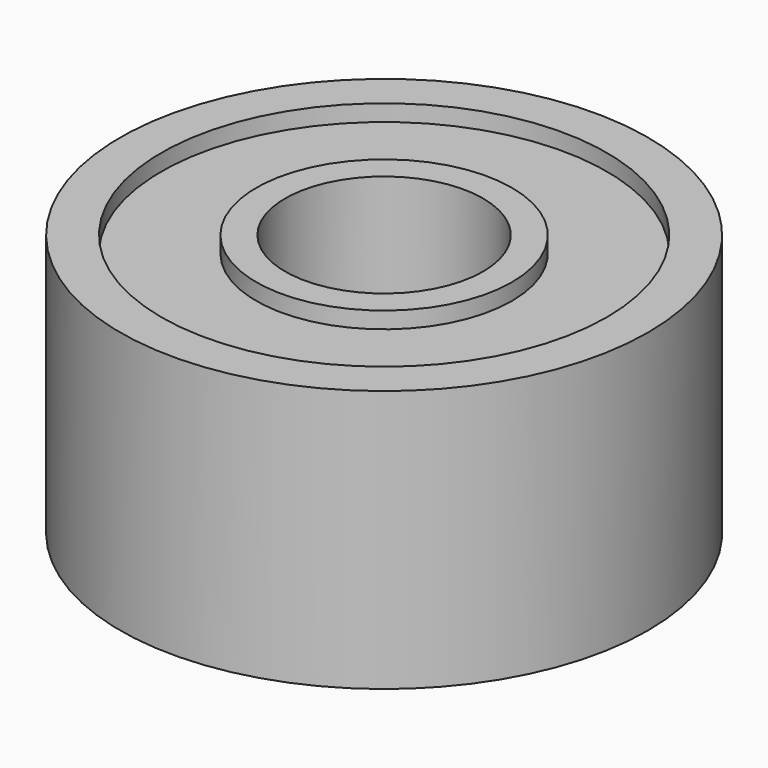
from build123d import *

# Parameters (mm, degrees)
SKETCH083_R     = 16
SKETCH083_R_2   = 6
PAD029_DEPTH    = 7.95
SKETCH084_R     = 13.5
SKETCH084_R_2   = 7.75
POCKET048_DEPTH = 1


with BuildPart() as part:
    # Sketch083 → Pad029 (new body, symmetric)
    with BuildSketch(Plane.XY):
        Circle(SKETCH083_R)
        Circle(SKETCH083_R_2, mode=Mode.SUBTRACT)
    extrude(amount=PAD029_DEPTH, both=True)

    # Sketch084 (on Face4 of Pad029) → Pocket048 (cut)
    with BuildSketch(Plane.XY.offset(7.95)):
        Circle(SKETCH084_R)
        Circle(SKETCH084_R_2, mode=Mode.SUBTRACT)
    pocket048 = extrude(amount=-POCKET048_DEPTH, mode=Mode.SUBTRACT)

    # Mirrored001: Pocket048 across XY
    add(pocket048.mirror(Plane.XY), mode=Mode.SUBTRACT)


solid = part.part
